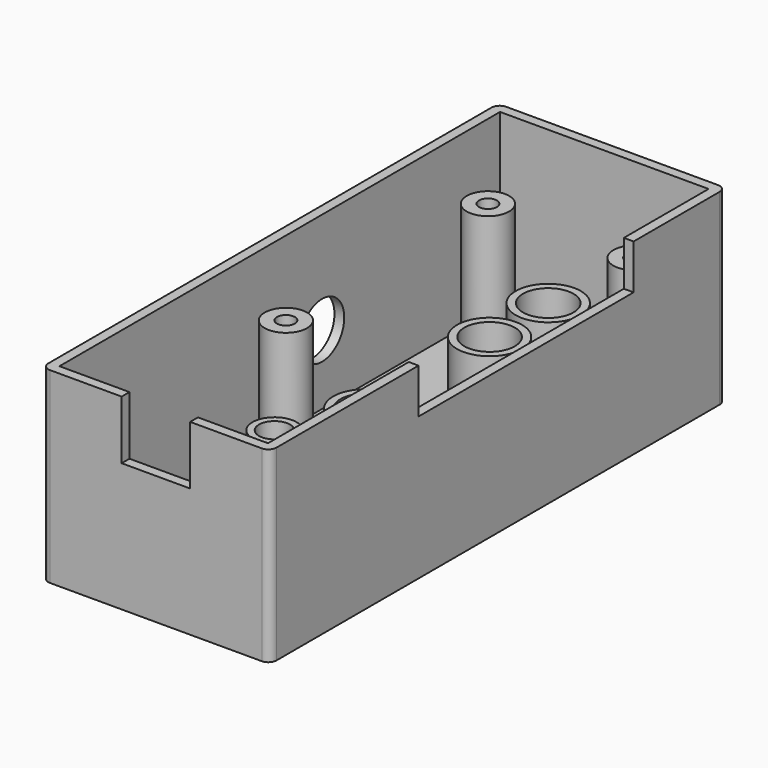
from build123d import *

# Parameters (mm, degrees)
SKETCH_W        = 28
SKETCH_H        = 70
PAD_DEPTH       = 23
SKETCH001_W     = 25.6
SKETCH001_H     = 67.6
POCKET_DEPTH    = 21
SKETCH002_W     = 1.2
SKETCH002_H     = 33
POCKET001_DEPTH = 5.5
SKETCH003_R     = 2.6
SKETCH003_R_2   = 1.1
PAD001_DEPTH    = 15
SKETCH004_R     = 3.1
SKETCH004_R_2   = 1.9
POCKET002_DEPTH = 2
SKETCH005_R     = 4
SKETCH005_R_2   = 3.1
SKETCH005_R_3   = 2.7
SKETCH005_R_4   = 1.9
PAD002_DEPTH    = 8
SKETCH006_W     = 8.4
SKETCH006_H     = 1.2
POCKET003_DEPTH = 7.2
SKETCH007_R     = 3.4
POCKET004_DEPTH = 2
FILLET_R        = 1


with BuildPart() as part:
    # Sketch → Pad (new body)
    with BuildSketch(Plane.XY):
        Rectangle(SKETCH_W, SKETCH_H)
    extrude(amount=PAD_DEPTH)

    # Sketch001 → Pocket (cut)
    with BuildSketch(Plane.XY.offset(23)):
        Rectangle(SKETCH001_W, SKETCH001_H)
    extrude(amount=-POCKET_DEPTH, mode=Mode.SUBTRACT)

    # Sketch002 → Pocket001 (cut)
    with BuildSketch(Plane.XY.offset(23)):
        with Locations((13.4, 4.3)):
            Rectangle(SKETCH002_W, SKETCH002_H)
    extrude(amount=-POCKET001_DEPTH, mode=Mode.SUBTRACT)

    # Sketch003 → Pad001 (new body)
    with BuildSketch(Plane.XY.offset(2)):
        with Locations((-9, -3.8)):
            Circle(SKETCH003_R)
        with Locations((-9, -3.8)):
            Circle(SKETCH003_R_2, mode=Mode.SUBTRACT)
        with Locations((-9, 27.2)):
            Circle(SKETCH003_R)
        with Locations((-9, 27.2)):
            Circle(SKETCH003_R_2, mode=Mode.SUBTRACT)
        with Locations((9, 27.2)):
            Circle(SKETCH003_R)
        with Locations((9, 27.2)):
            Circle(SKETCH003_R_2, mode=Mode.SUBTRACT)
    extrude(amount=PAD001_DEPTH)

    # Sketch004 → Pocket002 (cut)
    with BuildSketch(Plane.XY.offset(2)):
        with Locations((0, 25.2)):
            Circle(SKETCH004_R)
        with Locations((0, 16.2)):
            Circle(SKETCH004_R)
        with Locations((0, -2.8)):
            Circle(SKETCH004_R)
        with Locations((-4, -11.8)):
            Circle(SKETCH004_R_2)
        with Locations((4, -11.8)):
            Circle(SKETCH004_R_2)
    extrude(amount=-POCKET002_DEPTH, mode=Mode.SUBTRACT)

    # Sketch005 → Pad002 (new body)
    with BuildSketch(Plane.XY.offset(2)):
        with Locations((0, 25.2)):
            Circle(SKETCH005_R)
        with Locations((0, 25.2)):
            Circle(SKETCH005_R_2, mode=Mode.SUBTRACT)
        with Locations((0, 16.2)):
            Circle(SKETCH005_R)
        with Locations((0, 16.2)):
            Circle(SKETCH005_R_2, mode=Mode.SUBTRACT)
        with Locations((0, -2.8)):
            Circle(SKETCH005_R)
        with Locations((0, -2.8)):
            Circle(SKETCH005_R_2, mode=Mode.SUBTRACT)
        with Locations((-4, -11.8)):
            Circle(SKETCH005_R_3)
        with Locations((-4, -11.8)):
            Circle(SKETCH005_R_4, mode=Mode.SUBTRACT)
        with Locations((4, -11.8)):
            Circle(SKETCH005_R_3)
        with Locations((4, -11.8)):
            Circle(SKETCH005_R_4, mode=Mode.SUBTRACT)
    extrude(amount=PAD002_DEPTH)

    # Sketch006 → Pocket003 (cut)
    with BuildSketch(Plane.XY.offset(23)):
        with Locations((0, -34.4)):
            Rectangle(SKETCH006_W, SKETCH006_H)
    extrude(amount=-POCKET003_DEPTH, mode=Mode.SUBTRACT)

    # Sketch007 → Pocket004 (cut)
    with BuildSketch(Plane(origin=(-14, 0, 0), x_dir=(0, -1, 0), z_dir=(-1, 0, 0))):
        with Locations((-6.5, 10.5)):
            Circle(SKETCH007_R)
    extrude(amount=-POCKET004_DEPTH, mode=Mode.SUBTRACT)

    # Fillet
    fillet_edges = [part.edges().sort_by_distance(p)[0] for p in [
        (-14, 35, 11.5),
        (-14, -35, 11.5),
        (14, -35, 11.5),
        (14, 35, 11.5),
    ]]
    fillet(fillet_edges, radius=FILLET_R)


solid = part.part
